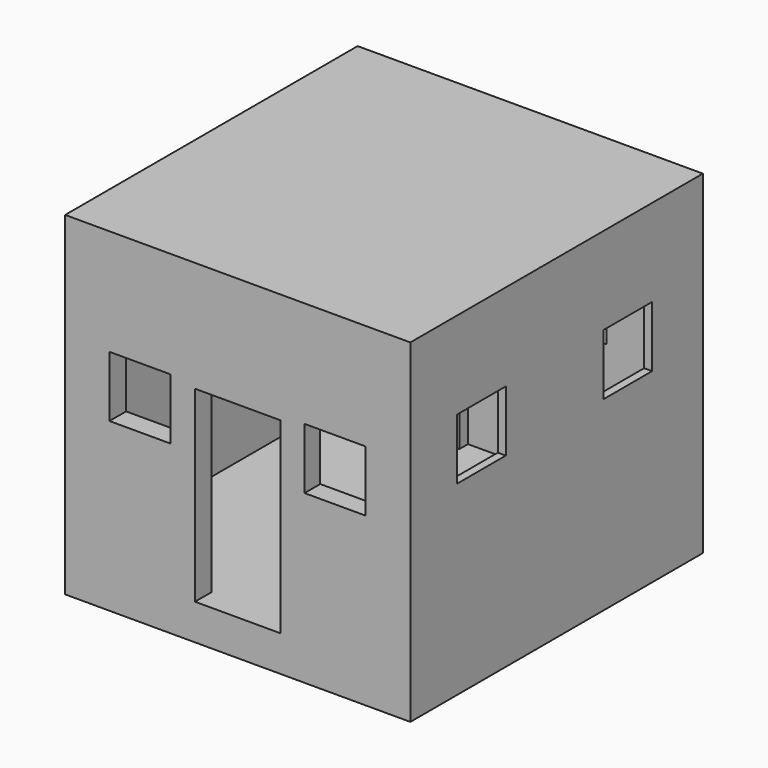
from build123d import *

# Parameters (mm, degrees)
F0_W      = 143.89868
F0_H      = 139.25679
F1_DEPTH  = 152.4
F2_W      = 25.4
F2_H      = 25.4
F2_W_2    = 35.657714
F2_H_2    = 78.153904
F3_DEPTH  = 142.24
F4_W      = 129.092633
F4_H      = 89.404348
F5_DEPTH  = 50.8
F6_W      = 134.386524
F6_H      = 100.197379
F7_DEPTH  = 50.8
F8_W      = 129.092633
F8_H      = 8.289584
F9_DEPTH  = 50.8
F10_W     = 25.4
F10_H     = 25.4
F11_DEPTH = 25.4
F12_W     = 25.4
F12_H     = 25.4
F13_DEPTH = 50.8
F14_W     = 25.399997
F14_H     = 25.4
F14_W_2   = 25.4
F15_DEPTH = 25.4


with BuildPart() as f1:
    # F0 (on Front) → F1 (new body)
    with BuildSketch(Plane.XZ):
        Rectangle(F0_W, F0_H)
    extrude(amount=F1_DEPTH)

    # F2 (on face) → F3 (cut)
    with BuildSketch(Plane.XZ.offset(152.4)):
        with Locations((-40.786578, 12.7)):
            Rectangle(F2_W, F2_H)
        with Locations((40.542332, 12.7)):
            Rectangle(F2_W, F2_H)
        with Locations((0, -15.630781)):
            Rectangle(F2_W_2, F2_H_2)
    extrude(amount=-F3_DEPTH, mode=Mode.SUBTRACT)

    # F4 (on face) → F5 (cut)
    with BuildSketch(Plane.YZ.offset(-17.828857)):
        with Locations((-79.17279, -1.715975)):
            Rectangle(F4_W, F4_H)
    extrude(amount=-F5_DEPTH, mode=Mode.SUBTRACT)

    # F6 (on face) → F7 (cut)
    with BuildSketch(Plane(origin=(17.828857, 0, 0), x_dir=(0, -1, 0), z_dir=(-1, 0, 0))):
        with Locations((77.042945, -4.609043)):
            Rectangle(F6_W, F6_H)
    extrude(amount=-F7_DEPTH, mode=Mode.SUBTRACT)

    # F8 (on face) → F9 (cut)
    with BuildSketch(Plane.YZ.offset(-17.828857)):
        with Locations((-79.17279, -50.562941)):
            Rectangle(F8_W, F8_H)
    extrude(amount=-F9_DEPTH, mode=Mode.SUBTRACT)

    # F10 (on face) → F11 (cut)
    with BuildSketch(Plane.YZ.offset(71.94934)):
        with Locations((-115.364381, 20.59305)):
            Rectangle(F10_W, F10_H)
        with Locations((-39.158143, 20.59305)):
            Rectangle(F10_W, F10_H)
    extrude(amount=-F11_DEPTH, mode=Mode.SUBTRACT)

    # F12 (on face) → F13 (cut)
    with BuildSketch(Plane(origin=(-71.94934, 0, 0), x_dir=(0, -1, 0), z_dir=(-1, 0, 0))):
        with Locations((46.475742, 16.083911)):
            Rectangle(F12_W, F12_H)
        with Locations((105.357133, 16.083911)):
            Rectangle(F12_W, F12_H)
    extrude(amount=-F13_DEPTH, mode=Mode.SUBTRACT)

    # F14 (on face) → F15 (cut)
    with BuildSketch(Plane(origin=(0, 0, 0), x_dir=(-1, 0, 0), z_dir=(0, 1, 0))):
        with Locations((-26.893279, 13.194072)):
            Rectangle(F14_W, F14_H)
        with Locations((27.382654, 13.194072)):
            Rectangle(F14_W_2, F14_H)
    extrude(amount=-F15_DEPTH, mode=Mode.SUBTRACT)


solid = f1.part
